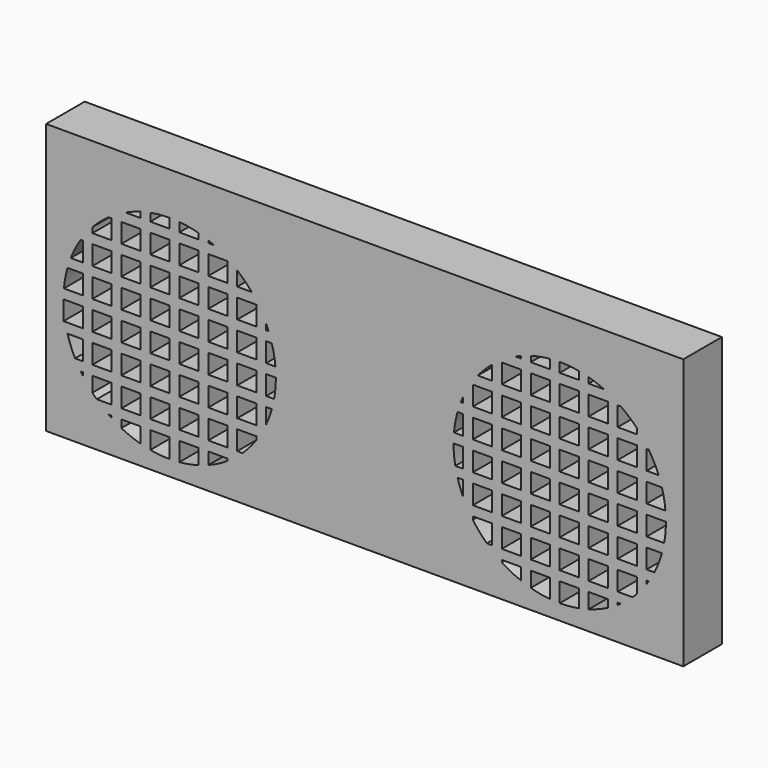
from build123d import *

# Parameters (mm, degrees)
F0_W     = 165
F0_H     = 140
F0_W_2   = 10
F0_H_2   = 10
F1_DEPTH = 25


with BuildPart() as f1:
    # F0 (on Front) → F1 (new body)
    with BuildSketch(Plane.XZ):
        with Locations((-82.5, 70)):
            Rectangle(F0_W, F0_H)
        with Locations((-151, 13)):
            Rectangle(F0_W_2, F0_H_2, mode=Mode.SUBTRACT)
        with Locations((-61, 13)):
            Rectangle(F0_W_2, F0_H_2, mode=Mode.SUBTRACT)
        with Locations((-46, 13)):
            Rectangle(F0_W_2, F0_H_2, mode=Mode.SUBTRACT)
        with Locations((-46, 28)):
            Rectangle(F0_W_2, F0_H_2, mode=Mode.SUBTRACT)
        with BuildLine():
            ThreePointArc((-46.2277442495, 68), (-46.0569655631, 65.5025920284), (-46, 63))
            Line((-46, 63), (-41, 63))
            Line((-41, 63), (-41, 53))
            Line((-41, 53), (-46.916730868, 53))
            ThreePointArc((-46.916730868, 53), (-47.4424720312, 50.4863595275), (-48.0849737787, 48))
            Line((-48.0849737787, 48), (-41, 48))
            Line((-41, 48), (-41, 38))
            Line((-41, 38), (-51, 38))
            Line((-51, 38), (-51, 40.0871215252))
            ThreePointArc((-51, 40.0871215252), (-53.3007800761, 35.6178083665), (-56, 31.3772233983))
            Line((-56, 31.3772233983), (-56, 23))
            Line((-56, 23), (-63.2508278236, 23))
            ThreePointArc((-63.2508278236, 23), (-66.9884852305, 19.7771256962), (-71, 16.9022777135))
            Line((-71, 16.9022777135), (-71, 8))
            Line((-71, 8), (-81, 8))
            Line((-81, 8), (-81, 11.7652461702))
            ThreePointArc((-81, 11.7652461702), (-83.4798450684, 10.8651347832), (-86, 10.0849737787))
            Line((-86, 10.0849737787), (-86, 8))
            Line((-86, 8), (-96, 8))
            Line((-96, 8), (-96, 8.2277442495))
            ThreePointArc((-96, 8.2277442495), (-98.4974079716, 8.0569655631), (-101, 8))
            Line((-101, 8), (-111, 8))
            Line((-111, 8), (-111, 8.916730868))
            ThreePointArc((-111, 8.916730868), (-113.5136404725, 9.4424720312), (-116, 10.0849737787))
            Line((-116, 10.0849737787), (-116, 8))
            Line((-116, 8), (-126, 8))
            Line((-126, 8), (-126, 14.0102051443))
            ThreePointArc((-126, 14.0102051443), (-128.5379923185, 15.3905578791), (-131, 16.9022777135))
            Line((-131, 16.9022777135), (-131, 8))
            Line((-131, 8), (-141, 8))
            Line((-141, 8), (-141, 18))
            Line((-141, 18), (-132.6227766017, 18))
            ThreePointArc((-132.6227766017, 18), (-135.7759517385, 20.3897526329), (-138.7491721764, 23))
            Line((-138.7491721764, 23), (-141, 23))
            Line((-141, 23), (-141, 25.2508278236))
            ThreePointArc((-141, 25.2508278236), (-143.6102473671, 28.2240482615), (-146, 31.3772233983))
            Line((-146, 31.3772233983), (-146, 23))
            Line((-146, 23), (-156, 23))
            Line((-156, 23), (-156, 33))
            Line((-156, 33), (-147.0977222865, 33))
            ThreePointArc((-147.0977222865, 33), (-148.6094421209, 35.4620076815), (-149.9897948557, 38))
            Line((-149.9897948557, 38), (-156, 38))
            Line((-156, 38), (-156, 48))
            Line((-156, 48), (-153.9150262213, 48))
            ThreePointArc((-153.9150262213, 48), (-154.5575279688, 50.4863595275), (-155.083269132, 53))
            Line((-155.083269132, 53), (-156, 53))
            Line((-156, 53), (-156, 63))
            ThreePointArc((-156, 63), (-155.9430344369, 65.5025920284), (-155.7722557505, 68))
            Line((-155.7722557505, 68), (-156, 68))
            Line((-156, 68), (-156, 78))
            Line((-156, 78), (-153.9150262213, 78))
            ThreePointArc((-153.9150262213, 78), (-153.1348652168, 80.5201549316), (-152.2347538298, 83))
            Line((-152.2347538298, 83), (-156, 83))
            Line((-156, 83), (-156, 93))
            Line((-156, 93), (-147.0977222865, 93))
            ThreePointArc((-147.0977222865, 93), (-144.2228743038, 97.0115147695), (-141, 100.7491721764))
            Line((-141, 100.7491721764), (-141, 108))
            Line((-141, 108), (-132.6227766017, 108))
            ThreePointArc((-132.6227766017, 108), (-128.3821916335, 110.6992199239), (-123.9128784748, 113))
            Line((-123.9128784748, 113), (-126, 113))
            Line((-126, 113), (-126, 123))
            Line((-126, 123), (-116, 123))
            Line((-116, 123), (-116, 115.9150262213))
            ThreePointArc((-116, 115.9150262213), (-113.5136404725, 116.5575279688), (-111, 117.083269132))
            Line((-111, 117.083269132), (-111, 123))
            Line((-111, 123), (-101, 123))
            Line((-101, 123), (-101, 118))
            ThreePointArc((-101, 118), (-98.4974079716, 117.9430344369), (-96, 117.7722557505))
            Line((-96, 117.7722557505), (-96, 123))
            Line((-96, 123), (-86, 123))
            Line((-86, 123), (-86, 115.9150262213))
            ThreePointArc((-86, 115.9150262213), (-83.4798450684, 115.1348652168), (-81, 114.2347538298))
            Line((-81, 114.2347538298), (-81, 123))
            Line((-81, 123), (-71, 123))
            Line((-71, 123), (-71, 113))
            Line((-71, 113), (-78.0871215252, 113))
            ThreePointArc((-78.0871215252, 113), (-71.7970001279, 109.6067033641), (-66, 105.4264068712))
            Line((-66, 105.4264068712), (-66, 108))
            Line((-66, 108), (-56, 108))
            Line((-56, 108), (-56, 98))
            Line((-56, 98), (-58.5735931288, 98))
            ThreePointArc((-58.5735931288, 98), (-54.3932966359, 92.2029998721), (-51, 85.9128784748))
            Line((-51, 85.9128784748), (-51, 93))
            Line((-51, 93), (-41, 93))
            Line((-41, 93), (-41, 83))
            Line((-41, 83), (-49.7652461702, 83))
            ThreePointArc((-49.7652461702, 83), (-48.8651347832, 80.5201549316), (-48.0849737787, 78))
            Line((-48.0849737787, 78), (-41, 78))
            Line((-41, 78), (-41, 68))
            Line((-41, 68), (-46.2277442495, 68))
        make_face(mode=Mode.SUBTRACT)
        with Locations((-151, 103)):
            Rectangle(F0_W_2, F0_H_2, mode=Mode.SUBTRACT)
        with Locations((-46, 103)):
            Rectangle(F0_W_2, F0_H_2, mode=Mode.SUBTRACT)
        with Locations((-151, 118)):
            Rectangle(F0_W_2, F0_H_2, mode=Mode.SUBTRACT)
        with Locations((-136, 118)):
            Rectangle(F0_W_2, F0_H_2, mode=Mode.SUBTRACT)
        with Locations((-61, 118)):
            Rectangle(F0_W_2, F0_H_2, mode=Mode.SUBTRACT)
        with Locations((-46, 118)):
            Rectangle(F0_W_2, F0_H_2, mode=Mode.SUBTRACT)
        with Locations((82.5, 70)):
            Rectangle(F0_W, F0_H)
        with Locations((46, 13)):
            Rectangle(F0_W_2, F0_H_2, mode=Mode.SUBTRACT)
        with Locations((61, 13)):
            Rectangle(F0_W_2, F0_H_2, mode=Mode.SUBTRACT)
        with Locations((46, 28)):
            Rectangle(F0_W_2, F0_H_2, mode=Mode.SUBTRACT)
        with Locations((151, 13)):
            Rectangle(F0_W_2, F0_H_2, mode=Mode.SUBTRACT)
        with BuildLine():
            Line((156, 23), (146, 23))
            Line((146, 23), (146, 31.3772233983))
            ThreePointArc((146, 31.3772233983), (143.6102473671, 28.2240482615), (141, 25.2508278236))
            Line((141, 25.2508278236), (141, 23))
            Line((141, 23), (138.7491721764, 23))
            ThreePointArc((138.7491721764, 23), (135.7759517385, 20.3897526329), (132.6227766017, 18))
            Line((132.6227766017, 18), (141, 18))
            Line((141, 18), (141, 8))
            Line((141, 8), (131, 8))
            Line((131, 8), (131, 16.9022777135))
            ThreePointArc((131, 16.9022777135), (128.5379923185, 15.3905578791), (126, 14.0102051443))
            Line((126, 14.0102051443), (126, 8))
            Line((126, 8), (116, 8))
            Line((116, 8), (116, 10.0849737787))
            ThreePointArc((116, 10.0849737787), (113.5136404725, 9.4424720312), (111, 8.916730868))
            Line((111, 8.916730868), (111, 8))
            Line((111, 8), (101, 8))
            ThreePointArc((101, 8), (98.4974079716, 8.0569655631), (96, 8.2277442495))
            Line((96, 8.2277442495), (96, 8))
            Line((96, 8), (86, 8))
            Line((86, 8), (86, 10.0849737787))
            ThreePointArc((86, 10.0849737787), (83.4798450684, 10.8651347832), (81, 11.7652461702))
            Line((81, 11.7652461702), (81, 8))
            Line((81, 8), (71, 8))
            Line((71, 8), (71, 16.9022777135))
            ThreePointArc((71, 16.9022777135), (66.9884852305, 19.7771256962), (63.2508278236, 23))
            Line((63.2508278236, 23), (56, 23))
            Line((56, 23), (56, 31.3772233983))
            ThreePointArc((56, 31.3772233983), (53.3007800761, 35.6178083665), (51, 40.0871215252))
            Line((51, 40.0871215252), (51, 38))
            Line((51, 38), (41, 38))
            Line((41, 38), (41, 48))
            Line((41, 48), (48.0849737787, 48))
            ThreePointArc((48.0849737787, 48), (47.4424720312, 50.4863595275), (46.916730868, 53))
            Line((46.916730868, 53), (41, 53))
            Line((41, 53), (41, 63))
            Line((41, 63), (46, 63))
            ThreePointArc((46, 63), (46.0569655631, 65.5025920284), (46.2277442495, 68))
            Line((46.2277442495, 68), (41, 68))
            Line((41, 68), (41, 78))
            Line((41, 78), (48.0849737787, 78))
            ThreePointArc((48.0849737787, 78), (48.8651347832, 80.5201549316), (49.7652461702, 83))
            Line((49.7652461702, 83), (41, 83))
            Line((41, 83), (41, 93))
            Line((41, 93), (51, 93))
            Line((51, 93), (51, 85.9128784748))
            ThreePointArc((51, 85.9128784748), (54.3932966359, 92.2029998721), (58.5735931288, 98))
            Line((58.5735931288, 98), (56, 98))
            Line((56, 98), (56, 108))
            Line((56, 108), (66, 108))
            Line((66, 108), (66, 105.4264068712))
            ThreePointArc((66, 105.4264068712), (71.7970001279, 109.6067033641), (78.0871215252, 113))
            Line((78.0871215252, 113), (71, 113))
            Line((71, 113), (71, 123))
            Line((71, 123), (81, 123))
            Line((81, 123), (81, 114.2347538298))
            ThreePointArc((81, 114.2347538298), (83.4798450684, 115.1348652168), (86, 115.9150262213))
            Line((86, 115.9150262213), (86, 123))
            Line((86, 123), (96, 123))
            Line((96, 123), (96, 117.7722557505))
            ThreePointArc((96, 117.7722557505), (98.4974079716, 117.9430344369), (101, 118))
            Line((101, 118), (101, 123))
            Line((101, 123), (111, 123))
            Line((111, 123), (111, 117.083269132))
            ThreePointArc((111, 117.083269132), (113.5136404725, 116.5575279688), (116, 115.9150262213))
            Line((116, 115.9150262213), (116, 123))
            Line((116, 123), (126, 123))
            Line((126, 123), (126, 113))
            Line((126, 113), (123.9128784748, 113))
            ThreePointArc((123.9128784748, 113), (128.3821916335, 110.6992199239), (132.6227766017, 108))
            Line((132.6227766017, 108), (141, 108))
            Line((141, 108), (141, 100.7491721764))
            ThreePointArc((141, 100.7491721764), (144.2228743038, 97.0115147695), (147.0977222865, 93))
            Line((147.0977222865, 93), (156, 93))
            Line((156, 93), (156, 83))
            Line((156, 83), (152.2347538298, 83))
            ThreePointArc((152.2347538298, 83), (153.1348652168, 80.5201549316), (153.9150262213, 78))
            Line((153.9150262213, 78), (156, 78))
            Line((156, 78), (156, 68))
            Line((156, 68), (155.7722557505, 68))
            ThreePointArc((155.7722557505, 68), (155.9430344369, 65.5025920284), (156, 63))
            Line((156, 63), (156, 53))
            Line((156, 53), (155.083269132, 53))
            ThreePointArc((155.083269132, 53), (154.5575279688, 50.4863595275), (153.9150262213, 48))
            Line((153.9150262213, 48), (156, 48))
            Line((156, 48), (156, 38))
            Line((156, 38), (149.9897948557, 38))
            ThreePointArc((149.9897948557, 38), (148.6094421209, 35.4620076815), (147.0977222865, 33))
            Line((147.0977222865, 33), (156, 33))
            Line((156, 33), (156, 23))
        make_face(mode=Mode.SUBTRACT)
        with Locations((46, 103)):
            Rectangle(F0_W_2, F0_H_2, mode=Mode.SUBTRACT)
        with Locations((151, 103)):
            Rectangle(F0_W_2, F0_H_2, mode=Mode.SUBTRACT)
        with Locations((46, 118)):
            Rectangle(F0_W_2, F0_H_2, mode=Mode.SUBTRACT)
        with Locations((61, 118)):
            Rectangle(F0_W_2, F0_H_2, mode=Mode.SUBTRACT)
        with Locations((136, 118)):
            Rectangle(F0_W_2, F0_H_2, mode=Mode.SUBTRACT)
        with Locations((151, 118)):
            Rectangle(F0_W_2, F0_H_2, mode=Mode.SUBTRACT)
        with Locations((-151, 118)):
            Rectangle(F0_W_2, F0_H_2)
        with Locations((-136, 118)):
            Rectangle(F0_W_2, F0_H_2)
        with BuildLine():
            ThreePointArc((-123.9128784748, 113), (-120.0123889353, 114.6093893296), (-116, 115.9150262213))
            Line((-116, 115.9150262213), (-116, 123))
            Line((-116, 123), (-126, 123))
            Line((-126, 123), (-126, 113))
            Line((-126, 113), (-123.9128784748, 113))
        make_face()
        with BuildLine():
            ThreePointArc((-111, 117.083269132), (-106.0209659301, 117.7703377854), (-101, 118))
            Line((-101, 118), (-101, 123))
            Line((-101, 123), (-111, 123))
            Line((-111, 123), (-111, 117.083269132))
        make_face()
        with BuildLine():
            ThreePointArc((-96, 117.7722557505), (-90.956976283, 117.0752963433), (-86, 115.9150262213))
            Line((-86, 115.9150262213), (-86, 123))
            Line((-86, 123), (-96, 123))
            Line((-96, 123), (-96, 117.7722557505))
        make_face()
        with BuildLine():
            ThreePointArc((-81, 114.2347538298), (-79.534680552, 113.638326009), (-78.0871215252, 113))
            Line((-78.0871215252, 113), (-71, 113))
            Line((-71, 113), (-71, 123))
            Line((-71, 123), (-81, 123))
            Line((-81, 123), (-81, 114.2347538298))
        make_face()
        with Locations((-61, 118)):
            Rectangle(F0_W_2, F0_H_2)
        with Locations((-46, 118)):
            Rectangle(F0_W_2, F0_H_2)
        with Locations((-46, 103)):
            Rectangle(F0_W_2, F0_H_2)
        with BuildLine():
            ThreePointArc((-66, 105.4264068712), (-62.1091270347, 101.8908729653), (-58.5735931288, 98))
            Line((-58.5735931288, 98), (-56, 98))
            Line((-56, 98), (-56, 108))
            Line((-56, 108), (-66, 108))
            Line((-66, 108), (-66, 105.4264068712))
        make_face()
        with BuildLine():
            ThreePointArc((-141, 100.7491721764), (-136.9944323204, 104.5860654779), (-132.6227766017, 108))
            Line((-132.6227766017, 108), (-141, 108))
            Line((-141, 108), (-141, 100.7491721764))
        make_face()
        with Locations((-151, 103)):
            Rectangle(F0_W_2, F0_H_2)
        with BuildLine():
            ThreePointArc((-152.2347538298, 83), (-149.9224153812, 88.1315990989), (-147.0977222865, 93))
            Line((-147.0977222865, 93), (-156, 93))
            Line((-156, 93), (-156, 83))
            Line((-156, 83), (-152.2347538298, 83))
        make_face()
        with BuildLine():
            ThreePointArc((-51, 85.9128784748), (-50.361673991, 84.465319448), (-49.7652461702, 83))
            Line((-49.7652461702, 83), (-41, 83))
            Line((-41, 83), (-41, 93))
            Line((-41, 93), (-51, 93))
            Line((-51, 93), (-51, 85.9128784748))
        make_face()
        with BuildLine():
            ThreePointArc((-48.0849737787, 78), (-46.9247036567, 73.043023717), (-46.2277442495, 68))
            Line((-46.2277442495, 68), (-41, 68))
            Line((-41, 68), (-41, 78))
            Line((-41, 78), (-48.0849737787, 78))
        make_face()
        with BuildLine():
            Line((-41, 63), (-46, 63))
            ThreePointArc((-46, 63), (-46.2296622146, 57.9790340699), (-46.916730868, 53))
            Line((-46.916730868, 53), (-41, 53))
            Line((-41, 53), (-41, 63))
        make_face()
        with BuildLine():
            Line((-41, 48), (-48.0849737787, 48))
            ThreePointArc((-48.0849737787, 48), (-49.3906106704, 43.9876110647), (-51, 40.0871215252))
            Line((-51, 40.0871215252), (-51, 38))
            Line((-51, 38), (-41, 38))
            Line((-41, 38), (-41, 48))
        make_face()
        with Locations((-46, 28)):
            Rectangle(F0_W_2, F0_H_2)
        with Locations((-46, 13)):
            Rectangle(F0_W_2, F0_H_2)
        with Locations((-61, 13)):
            Rectangle(F0_W_2, F0_H_2)
        with BuildLine():
            Line((-56, 23), (-56, 31.3772233983))
            ThreePointArc((-56, 31.3772233983), (-59.4139345221, 27.0055676796), (-63.2508278236, 23))
            Line((-63.2508278236, 23), (-56, 23))
        make_face()
        with BuildLine():
            Line((-71, 8), (-71, 16.9022777135))
            ThreePointArc((-71, 16.9022777135), (-75.8684009011, 14.0775846188), (-81, 11.7652461702))
            Line((-81, 11.7652461702), (-81, 8))
            Line((-81, 8), (-71, 8))
        make_face()
        with BuildLine():
            Line((-116, 8), (-116, 10.0849737787))
            ThreePointArc((-116, 10.0849737787), (-121.0960657921, 11.8028502778), (-126, 14.0102051443))
            Line((-126, 14.0102051443), (-126, 8))
            Line((-126, 8), (-116, 8))
        make_face()
        with BuildLine():
            Line((-131, 8), (-131, 16.9022777135))
            ThreePointArc((-131, 16.9022777135), (-131.8162765041, 17.4439125646), (-132.6227766017, 18))
            Line((-132.6227766017, 18), (-141, 18))
            Line((-141, 18), (-141, 8))
            Line((-141, 8), (-131, 8))
        make_face()
        with Locations((-151, 13)):
            Rectangle(F0_W_2, F0_H_2)
        with BuildLine():
            Line((-146, 23), (-146, 31.3772233983))
            ThreePointArc((-146, 31.3772233983), (-146.5560874354, 32.1837234959), (-147.0977222865, 33))
            Line((-147.0977222865, 33), (-156, 33))
            Line((-156, 33), (-156, 23))
            Line((-156, 23), (-146, 23))
        make_face()
        with BuildLine():
            Line((-156, 38), (-149.9897948557, 38))
            ThreePointArc((-149.9897948557, 38), (-152.1971497222, 42.9039342079), (-153.9150262213, 48))
            Line((-153.9150262213, 48), (-156, 48))
            Line((-156, 48), (-156, 38))
        make_face()
        with BuildLine():
            ThreePointArc((-155.7722557505, 68), (-155.0752963433, 73.043023717), (-153.9150262213, 78))
            Line((-153.9150262213, 78), (-156, 78))
            Line((-156, 78), (-156, 68))
            Line((-156, 68), (-155.7722557505, 68))
        make_face()
        with BuildLine():
            Line((-141, 23), (-138.7491721764, 23))
            ThreePointArc((-138.7491721764, 23), (-139.8908729653, 24.1091270347), (-141, 25.2508278236))
            Line((-141, 25.2508278236), (-141, 23))
        make_face()
        with BuildLine():
            Line((-111, 8), (-101, 8))
            ThreePointArc((-101, 8), (-106.0209659301, 8.2296622146), (-111, 8.916730868))
            Line((-111, 8.916730868), (-111, 8))
        make_face()
        with BuildLine():
            Line((-86, 8), (-86, 10.0849737787))
            ThreePointArc((-86, 10.0849737787), (-90.956976283, 8.9247036567), (-96, 8.2277442495))
            Line((-96, 8.2277442495), (-96, 8))
            Line((-96, 8), (-86, 8))
        make_face()
        with BuildLine():
            Line((-51, 63), (-46, 63))
            ThreePointArc((-46, 63), (-46.0569655631, 65.5025920284), (-46.2277442495, 68))
            Line((-46.2277442495, 68), (-51, 68))
            Line((-51, 68), (-51, 78))
            Line((-51, 78), (-48.0849737787, 78))
            ThreePointArc((-48.0849737787, 78), (-48.8651347832, 80.5201549316), (-49.7652461702, 83))
            Line((-49.7652461702, 83), (-51, 83))
            Line((-51, 83), (-51, 85.9128784748))
            ThreePointArc((-51, 85.9128784748), (-54.3932966359, 92.2029998721), (-58.5735931288, 98))
            Line((-58.5735931288, 98), (-66, 98))
            Line((-66, 98), (-66, 105.4264068712))
            ThreePointArc((-66, 105.4264068712), (-71.7970001279, 109.6067033641), (-78.0871215252, 113))
            Line((-78.0871215252, 113), (-81, 113))
            Line((-81, 113), (-81, 114.2347538298))
            ThreePointArc((-81, 114.2347538298), (-83.4798450684, 115.1348652168), (-86, 115.9150262213))
            Line((-86, 115.9150262213), (-86, 113))
            Line((-86, 113), (-96, 113))
            Line((-96, 113), (-96, 117.7722557505))
            ThreePointArc((-96, 117.7722557505), (-98.4974079716, 117.9430344369), (-101, 118))
            Line((-101, 118), (-101, 113))
            Line((-101, 113), (-111, 113))
            Line((-111, 113), (-111, 117.083269132))
            ThreePointArc((-111, 117.083269132), (-113.5136404725, 116.5575279688), (-116, 115.9150262213))
            Line((-116, 115.9150262213), (-116, 113))
            Line((-116, 113), (-123.9128784748, 113))
            ThreePointArc((-123.9128784748, 113), (-128.3821916335, 110.6992199239), (-132.6227766017, 108))
            Line((-132.6227766017, 108), (-131, 108))
            Line((-131, 108), (-131, 98))
            Line((-131, 98), (-141, 98))
            Line((-141, 98), (-141, 100.7491721764))
            ThreePointArc((-141, 100.7491721764), (-144.2228743038, 97.0115147695), (-147.0977222865, 93))
            Line((-147.0977222865, 93), (-146, 93))
            Line((-146, 93), (-146, 83))
            Line((-146, 83), (-152.2347538298, 83))
            ThreePointArc((-152.2347538298, 83), (-153.1348652168, 80.5201549316), (-153.9150262213, 78))
            Line((-153.9150262213, 78), (-146, 78))
            Line((-146, 78), (-146, 68))
            Line((-146, 68), (-155.7722557505, 68))
            ThreePointArc((-155.7722557505, 68), (-155.9430344369, 65.5025920284), (-156, 63))
            Line((-156, 63), (-146, 63))
            Line((-146, 63), (-146, 53))
            Line((-146, 53), (-155.083269132, 53))
            ThreePointArc((-155.083269132, 53), (-154.5575279688, 50.4863595275), (-153.9150262213, 48))
            Line((-153.9150262213, 48), (-146, 48))
            Line((-146, 48), (-146, 38))
            Line((-146, 38), (-149.9897948557, 38))
            ThreePointArc((-149.9897948557, 38), (-148.6094421209, 35.4620076815), (-147.0977222865, 33))
            Line((-147.0977222865, 33), (-146, 33))
            Line((-146, 33), (-146, 31.3772233983))
            ThreePointArc((-146, 31.3772233983), (-143.6102473671, 28.2240482615), (-141, 25.2508278236))
            Line((-141, 25.2508278236), (-141, 33))
            Line((-141, 33), (-131, 33))
            Line((-131, 33), (-131, 23))
            Line((-131, 23), (-138.7491721764, 23))
            ThreePointArc((-138.7491721764, 23), (-135.7759517385, 20.3897526329), (-132.6227766017, 18))
            Line((-132.6227766017, 18), (-131, 18))
            Line((-131, 18), (-131, 16.9022777135))
            ThreePointArc((-131, 16.9022777135), (-128.5379923185, 15.3905578791), (-126, 14.0102051443))
            Line((-126, 14.0102051443), (-126, 18))
            Line((-126, 18), (-116, 18))
            Line((-116, 18), (-116, 10.0849737787))
            ThreePointArc((-116, 10.0849737787), (-113.5136404725, 9.4424720312), (-111, 8.916730868))
            Line((-111, 8.916730868), (-111, 18))
            Line((-111, 18), (-101, 18))
            Line((-101, 18), (-101, 8))
            ThreePointArc((-101, 8), (-98.4974079716, 8.0569655631), (-96, 8.2277442495))
            Line((-96, 8.2277442495), (-96, 18))
            Line((-96, 18), (-86, 18))
            Line((-86, 18), (-86, 10.0849737787))
            ThreePointArc((-86, 10.0849737787), (-83.4798450684, 10.8651347832), (-81, 11.7652461702))
            Line((-81, 11.7652461702), (-81, 18))
            Line((-81, 18), (-71, 18))
            Line((-71, 18), (-71, 16.9022777135))
            ThreePointArc((-71, 16.9022777135), (-66.9884852305, 19.7771256962), (-63.2508278236, 23))
            Line((-63.2508278236, 23), (-66, 23))
            Line((-66, 23), (-66, 33))
            Line((-66, 33), (-56, 33))
            Line((-56, 33), (-56, 31.3772233983))
            ThreePointArc((-56, 31.3772233983), (-53.3007800761, 35.6178083665), (-51, 40.0871215252))
            Line((-51, 40.0871215252), (-51, 48))
            Line((-51, 48), (-48.0849737787, 48))
            ThreePointArc((-48.0849737787, 48), (-47.4424720312, 50.4863595275), (-46.916730868, 53))
            Line((-46.916730868, 53), (-51, 53))
            Line((-51, 53), (-51, 63))
        make_face()
        with Locations((-121, 28)):
            Rectangle(F0_W_2, F0_H_2, mode=Mode.SUBTRACT)
        with Locations((-106, 28)):
            Rectangle(F0_W_2, F0_H_2, mode=Mode.SUBTRACT)
        with Locations((-91, 28)):
            Rectangle(F0_W_2, F0_H_2, mode=Mode.SUBTRACT)
        with Locations((-76, 28)):
            Rectangle(F0_W_2, F0_H_2, mode=Mode.SUBTRACT)
        with Locations((-136, 43)):
            Rectangle(F0_W_2, F0_H_2, mode=Mode.SUBTRACT)
        with Locations((-121, 43)):
            Rectangle(F0_W_2, F0_H_2, mode=Mode.SUBTRACT)
        with Locations((-106, 43)):
            Rectangle(F0_W_2, F0_H_2, mode=Mode.SUBTRACT)
        with Locations((-91, 43)):
            Rectangle(F0_W_2, F0_H_2, mode=Mode.SUBTRACT)
        with Locations((-136, 58)):
            Rectangle(F0_W_2, F0_H_2, mode=Mode.SUBTRACT)
        with Locations((-121, 58)):
            Rectangle(F0_W_2, F0_H_2, mode=Mode.SUBTRACT)
        with Locations((-106, 58)):
            Rectangle(F0_W_2, F0_H_2, mode=Mode.SUBTRACT)
        with Locations((-91, 58)):
            Rectangle(F0_W_2, F0_H_2, mode=Mode.SUBTRACT)
        with Locations((-76, 43)):
            Rectangle(F0_W_2, F0_H_2, mode=Mode.SUBTRACT)
        with Locations((-61, 43)):
            Rectangle(F0_W_2, F0_H_2, mode=Mode.SUBTRACT)
        with Locations((-76, 58)):
            Rectangle(F0_W_2, F0_H_2, mode=Mode.SUBTRACT)
        with Locations((-61, 58)):
            Rectangle(F0_W_2, F0_H_2, mode=Mode.SUBTRACT)
        with Locations((-136, 73)):
            Rectangle(F0_W_2, F0_H_2, mode=Mode.SUBTRACT)
        with Locations((-121, 73)):
            Rectangle(F0_W_2, F0_H_2, mode=Mode.SUBTRACT)
        with Locations((-106, 73)):
            Rectangle(F0_W_2, F0_H_2, mode=Mode.SUBTRACT)
        with Locations((-91, 73)):
            Rectangle(F0_W_2, F0_H_2, mode=Mode.SUBTRACT)
        with Locations((-136, 88)):
            Rectangle(F0_W_2, F0_H_2, mode=Mode.SUBTRACT)
        with Locations((-121, 88)):
            Rectangle(F0_W_2, F0_H_2, mode=Mode.SUBTRACT)
        with Locations((-106, 88)):
            Rectangle(F0_W_2, F0_H_2, mode=Mode.SUBTRACT)
        with Locations((-91, 88)):
            Rectangle(F0_W_2, F0_H_2, mode=Mode.SUBTRACT)
        with Locations((-121, 103)):
            Rectangle(F0_W_2, F0_H_2, mode=Mode.SUBTRACT)
        with Locations((-106, 103)):
            Rectangle(F0_W_2, F0_H_2, mode=Mode.SUBTRACT)
        with Locations((-91, 103)):
            Rectangle(F0_W_2, F0_H_2, mode=Mode.SUBTRACT)
        with Locations((-76, 73)):
            Rectangle(F0_W_2, F0_H_2, mode=Mode.SUBTRACT)
        with Locations((-61, 73)):
            Rectangle(F0_W_2, F0_H_2, mode=Mode.SUBTRACT)
        with Locations((-76, 88)):
            Rectangle(F0_W_2, F0_H_2, mode=Mode.SUBTRACT)
        with Locations((-61, 88)):
            Rectangle(F0_W_2, F0_H_2, mode=Mode.SUBTRACT)
        with Locations((-76, 103)):
            Rectangle(F0_W_2, F0_H_2, mode=Mode.SUBTRACT)
        with Locations((46, 118)):
            Rectangle(F0_W_2, F0_H_2)
        with Locations((61, 118)):
            Rectangle(F0_W_2, F0_H_2)
        with BuildLine():
            ThreePointArc((78.0871215252, 113), (79.534680552, 113.638326009), (81, 114.2347538298))
            Line((81, 114.2347538298), (81, 123))
            Line((81, 123), (71, 123))
            Line((71, 123), (71, 113))
            Line((71, 113), (78.0871215252, 113))
        make_face()
        with BuildLine():
            ThreePointArc((86, 115.9150262213), (90.956976283, 117.0752963433), (96, 117.7722557505))
            Line((96, 117.7722557505), (96, 123))
            Line((96, 123), (86, 123))
            Line((86, 123), (86, 115.9150262213))
        make_face()
        with BuildLine():
            ThreePointArc((101, 118), (106.0209659301, 117.7703377854), (111, 117.083269132))
            Line((111, 117.083269132), (111, 123))
            Line((111, 123), (101, 123))
            Line((101, 123), (101, 118))
        make_face()
        with BuildLine():
            ThreePointArc((116, 115.9150262213), (120.0123889353, 114.6093893296), (123.9128784748, 113))
            Line((123.9128784748, 113), (126, 113))
            Line((126, 113), (126, 123))
            Line((126, 123), (116, 123))
            Line((116, 123), (116, 115.9150262213))
        make_face()
        with Locations((136, 118)):
            Rectangle(F0_W_2, F0_H_2)
        with Locations((151, 118)):
            Rectangle(F0_W_2, F0_H_2)
        with BuildLine():
            ThreePointArc((132.6227766017, 108), (136.9944323204, 104.5860654779), (141, 100.7491721764))
            Line((141, 100.7491721764), (141, 108))
            Line((141, 108), (132.6227766017, 108))
        make_face()
        with Locations((151, 103)):
            Rectangle(F0_W_2, F0_H_2)
        with BuildLine():
            ThreePointArc((147.0977222865, 93), (149.9224153812, 88.1315990989), (152.2347538298, 83))
            Line((152.2347538298, 83), (156, 83))
            Line((156, 83), (156, 93))
            Line((156, 93), (147.0977222865, 93))
        make_face()
        with BuildLine():
            ThreePointArc((58.5735931288, 98), (62.1091270347, 101.8908729653), (66, 105.4264068712))
            Line((66, 105.4264068712), (66, 108))
            Line((66, 108), (56, 108))
            Line((56, 108), (56, 98))
            Line((56, 98), (58.5735931288, 98))
        make_face()
        with Locations((46, 103)):
            Rectangle(F0_W_2, F0_H_2)
        with BuildLine():
            Line((41, 83), (49.7652461702, 83))
            ThreePointArc((49.7652461702, 83), (50.361673991, 84.465319448), (51, 85.9128784748))
            Line((51, 85.9128784748), (51, 93))
            Line((51, 93), (41, 93))
            Line((41, 93), (41, 83))
        make_face()
        with BuildLine():
            Line((41, 68), (46.2277442495, 68))
            ThreePointArc((46.2277442495, 68), (46.9247036567, 73.043023717), (48.0849737787, 78))
            Line((48.0849737787, 78), (41, 78))
            Line((41, 78), (41, 68))
        make_face()
        with BuildLine():
            Line((41, 53), (46.916730868, 53))
            ThreePointArc((46.916730868, 53), (46.2296622146, 57.9790340699), (46, 63))
            Line((46, 63), (41, 63))
            Line((41, 63), (41, 53))
        make_face()
        with BuildLine():
            Line((51, 38), (51, 40.0871215252))
            ThreePointArc((51, 40.0871215252), (49.3906106704, 43.9876110647), (48.0849737787, 48))
            Line((48.0849737787, 48), (41, 48))
            Line((41, 48), (41, 38))
            Line((41, 38), (51, 38))
        make_face()
        with Locations((46, 28)):
            Rectangle(F0_W_2, F0_H_2)
        with Locations((46, 13)):
            Rectangle(F0_W_2, F0_H_2)
        with Locations((61, 13)):
            Rectangle(F0_W_2, F0_H_2)
        with BuildLine():
            Line((56, 23), (63.2508278236, 23))
            ThreePointArc((63.2508278236, 23), (59.4139345221, 27.0055676796), (56, 31.3772233983))
            Line((56, 31.3772233983), (56, 23))
        make_face()
        with BuildLine():
            Line((81, 8), (81, 11.7652461702))
            ThreePointArc((81, 11.7652461702), (75.8684009011, 14.0775846188), (71, 16.9022777135))
            Line((71, 16.9022777135), (71, 8))
            Line((71, 8), (81, 8))
        make_face()
        with BuildLine():
            Line((126, 8), (126, 14.0102051443))
            ThreePointArc((126, 14.0102051443), (121.0960657921, 11.8028502778), (116, 10.0849737787))
            Line((116, 10.0849737787), (116, 8))
            Line((116, 8), (126, 8))
        make_face()
        with BuildLine():
            Line((141, 18), (132.6227766017, 18))
            ThreePointArc((132.6227766017, 18), (131.8162765041, 17.4439125646), (131, 16.9022777135))
            Line((131, 16.9022777135), (131, 8))
            Line((131, 8), (141, 8))
            Line((141, 8), (141, 18))
        make_face()
        with Locations((151, 13)):
            Rectangle(F0_W_2, F0_H_2)
        with BuildLine():
            Line((146, 31.3772233983), (146, 23))
            Line((146, 23), (156, 23))
            Line((156, 23), (156, 33))
            Line((156, 33), (147.0977222865, 33))
            ThreePointArc((147.0977222865, 33), (146.5560874354, 32.1837234959), (146, 31.3772233983))
        make_face()
        with BuildLine():
            ThreePointArc((153.9150262213, 48), (152.1971497222, 42.9039342079), (149.9897948557, 38))
            Line((149.9897948557, 38), (156, 38))
            Line((156, 38), (156, 48))
            Line((156, 48), (153.9150262213, 48))
        make_face()
        with BuildLine():
            Line((111, 8), (111, 8.916730868))
            ThreePointArc((111, 8.916730868), (106.0209659301, 8.2296622146), (101, 8))
            Line((101, 8), (111, 8))
        make_face()
        with BuildLine():
            ThreePointArc((141, 25.2508278236), (143.6102473671, 28.2240482615), (146, 31.3772233983))
            Line((146, 31.3772233983), (146, 33))
            Line((146, 33), (147.0977222865, 33))
            ThreePointArc((147.0977222865, 33), (148.6094421209, 35.4620076815), (149.9897948557, 38))
            Line((149.9897948557, 38), (146, 38))
            Line((146, 38), (146, 48))
            Line((146, 48), (153.9150262213, 48))
            ThreePointArc((153.9150262213, 48), (154.5575279688, 50.4863595275), (155.083269132, 53))
            Line((155.083269132, 53), (146, 53))
            Line((146, 53), (146, 63))
            Line((146, 63), (156, 63))
            ThreePointArc((156, 63), (155.9430344369, 65.5025920284), (155.7722557505, 68))
            Line((155.7722557505, 68), (146, 68))
            Line((146, 68), (146, 78))
            Line((146, 78), (153.9150262213, 78))
            ThreePointArc((153.9150262213, 78), (153.1348652168, 80.5201549316), (152.2347538298, 83))
            Line((152.2347538298, 83), (146, 83))
            Line((146, 83), (146, 93))
            Line((146, 93), (147.0977222865, 93))
            ThreePointArc((147.0977222865, 93), (144.2228743038, 97.0115147695), (141, 100.7491721764))
            Line((141, 100.7491721764), (141, 98))
            Line((141, 98), (131, 98))
            Line((131, 98), (131, 108))
            Line((131, 108), (132.6227766017, 108))
            ThreePointArc((132.6227766017, 108), (128.3821916335, 110.6992199239), (123.9128784748, 113))
            Line((123.9128784748, 113), (116, 113))
            Line((116, 113), (116, 115.9150262213))
            ThreePointArc((116, 115.9150262213), (113.5136404725, 116.5575279688), (111, 117.083269132))
            Line((111, 117.083269132), (111, 113))
            Line((111, 113), (101, 113))
            Line((101, 113), (101, 118))
            ThreePointArc((101, 118), (98.4974079716, 117.9430344369), (96, 117.7722557505))
            Line((96, 117.7722557505), (96, 113))
            Line((96, 113), (86, 113))
            Line((86, 113), (86, 115.9150262213))
            ThreePointArc((86, 115.9150262213), (83.4798450684, 115.1348652168), (81, 114.2347538298))
            Line((81, 114.2347538298), (81, 113))
            Line((81, 113), (78.0871215252, 113))
            ThreePointArc((78.0871215252, 113), (71.7970001279, 109.6067033641), (66, 105.4264068712))
            Line((66, 105.4264068712), (66, 98))
            Line((66, 98), (58.5735931288, 98))
            ThreePointArc((58.5735931288, 98), (54.3932966359, 92.2029998721), (51, 85.9128784748))
            Line((51, 85.9128784748), (51, 83))
            Line((51, 83), (49.7652461702, 83))
            ThreePointArc((49.7652461702, 83), (48.8651347832, 80.5201549316), (48.0849737787, 78))
            Line((48.0849737787, 78), (51, 78))
            Line((51, 78), (51, 68))
            Line((51, 68), (46.2277442495, 68))
            ThreePointArc((46.2277442495, 68), (46.0569655631, 65.5025920284), (46, 63))
            Line((46, 63), (51, 63))
            Line((51, 63), (51, 53))
            Line((51, 53), (46.916730868, 53))
            ThreePointArc((46.916730868, 53), (47.4424720312, 50.4863595275), (48.0849737787, 48))
            Line((48.0849737787, 48), (51, 48))
            Line((51, 48), (51, 40.0871215252))
            ThreePointArc((51, 40.0871215252), (53.3007800761, 35.6178083665), (56, 31.3772233983))
            Line((56, 31.3772233983), (56, 33))
            Line((56, 33), (66, 33))
            Line((66, 33), (66, 23))
            Line((66, 23), (63.2508278236, 23))
            ThreePointArc((63.2508278236, 23), (66.9884852305, 19.7771256962), (71, 16.9022777135))
            Line((71, 16.9022777135), (71, 18))
            Line((71, 18), (81, 18))
            Line((81, 18), (81, 11.7652461702))
            ThreePointArc((81, 11.7652461702), (83.4798450684, 10.8651347832), (86, 10.0849737787))
            Line((86, 10.0849737787), (86, 18))
            Line((86, 18), (96, 18))
            Line((96, 18), (96, 8.2277442495))
            ThreePointArc((96, 8.2277442495), (98.4974079716, 8.0569655631), (101, 8))
            Line((101, 8), (101, 18))
            Line((101, 18), (111, 18))
            Line((111, 18), (111, 8.916730868))
            ThreePointArc((111, 8.916730868), (113.5136404725, 9.4424720312), (116, 10.0849737787))
            Line((116, 10.0849737787), (116, 18))
            Line((116, 18), (126, 18))
            Line((126, 18), (126, 14.0102051443))
            ThreePointArc((126, 14.0102051443), (128.5379923185, 15.3905578791), (131, 16.9022777135))
            Line((131, 16.9022777135), (131, 18))
            Line((131, 18), (132.6227766017, 18))
            ThreePointArc((132.6227766017, 18), (135.7759517385, 20.3897526329), (138.7491721764, 23))
            Line((138.7491721764, 23), (131, 23))
            Line((131, 23), (131, 33))
            Line((131, 33), (141, 33))
            Line((141, 33), (141, 25.2508278236))
        make_face()
        with Locations((76, 28)):
            Rectangle(F0_W_2, F0_H_2, mode=Mode.SUBTRACT)
        with Locations((91, 28)):
            Rectangle(F0_W_2, F0_H_2, mode=Mode.SUBTRACT)
        with Locations((106, 28)):
            Rectangle(F0_W_2, F0_H_2, mode=Mode.SUBTRACT)
        with Locations((121, 28)):
            Rectangle(F0_W_2, F0_H_2, mode=Mode.SUBTRACT)
        with Locations((61, 43)):
            Rectangle(F0_W_2, F0_H_2, mode=Mode.SUBTRACT)
        with Locations((76, 43)):
            Rectangle(F0_W_2, F0_H_2, mode=Mode.SUBTRACT)
        with Locations((61, 58)):
            Rectangle(F0_W_2, F0_H_2, mode=Mode.SUBTRACT)
        with Locations((76, 58)):
            Rectangle(F0_W_2, F0_H_2, mode=Mode.SUBTRACT)
        with Locations((91, 43)):
            Rectangle(F0_W_2, F0_H_2, mode=Mode.SUBTRACT)
        with Locations((106, 43)):
            Rectangle(F0_W_2, F0_H_2, mode=Mode.SUBTRACT)
        with Locations((121, 43)):
            Rectangle(F0_W_2, F0_H_2, mode=Mode.SUBTRACT)
        with Locations((136, 43)):
            Rectangle(F0_W_2, F0_H_2, mode=Mode.SUBTRACT)
        with Locations((91, 58)):
            Rectangle(F0_W_2, F0_H_2, mode=Mode.SUBTRACT)
        with Locations((106, 58)):
            Rectangle(F0_W_2, F0_H_2, mode=Mode.SUBTRACT)
        with Locations((121, 58)):
            Rectangle(F0_W_2, F0_H_2, mode=Mode.SUBTRACT)
        with Locations((136, 58)):
            Rectangle(F0_W_2, F0_H_2, mode=Mode.SUBTRACT)
        with Locations((61, 73)):
            Rectangle(F0_W_2, F0_H_2, mode=Mode.SUBTRACT)
        with Locations((76, 73)):
            Rectangle(F0_W_2, F0_H_2, mode=Mode.SUBTRACT)
        with Locations((61, 88)):
            Rectangle(F0_W_2, F0_H_2, mode=Mode.SUBTRACT)
        with Locations((76, 88)):
            Rectangle(F0_W_2, F0_H_2, mode=Mode.SUBTRACT)
        with Locations((76, 103)):
            Rectangle(F0_W_2, F0_H_2, mode=Mode.SUBTRACT)
        with Locations((91, 73)):
            Rectangle(F0_W_2, F0_H_2, mode=Mode.SUBTRACT)
        with Locations((106, 73)):
            Rectangle(F0_W_2, F0_H_2, mode=Mode.SUBTRACT)
        with Locations((121, 73)):
            Rectangle(F0_W_2, F0_H_2, mode=Mode.SUBTRACT)
        with Locations((136, 73)):
            Rectangle(F0_W_2, F0_H_2, mode=Mode.SUBTRACT)
        with Locations((91, 88)):
            Rectangle(F0_W_2, F0_H_2, mode=Mode.SUBTRACT)
        with Locations((106, 88)):
            Rectangle(F0_W_2, F0_H_2, mode=Mode.SUBTRACT)
        with Locations((121, 88)):
            Rectangle(F0_W_2, F0_H_2, mode=Mode.SUBTRACT)
        with Locations((91, 103)):
            Rectangle(F0_W_2, F0_H_2, mode=Mode.SUBTRACT)
        with Locations((106, 103)):
            Rectangle(F0_W_2, F0_H_2, mode=Mode.SUBTRACT)
        with Locations((121, 103)):
            Rectangle(F0_W_2, F0_H_2, mode=Mode.SUBTRACT)
        with Locations((136, 88)):
            Rectangle(F0_W_2, F0_H_2, mode=Mode.SUBTRACT)
        with BuildLine():
            ThreePointArc((156, 63), (155.7703377854, 57.9790340699), (155.083269132, 53))
            Line((155.083269132, 53), (156, 53))
            Line((156, 53), (156, 63))
        make_face()
        with BuildLine():
            Line((141, 23), (141, 25.2508278236))
            ThreePointArc((141, 25.2508278236), (139.8908729653, 24.1091270347), (138.7491721764, 23))
            Line((138.7491721764, 23), (141, 23))
        make_face()
        with BuildLine():
            Line((96, 8), (96, 8.2277442495))
            ThreePointArc((96, 8.2277442495), (90.956976283, 8.9247036567), (86, 10.0849737787))
            Line((86, 10.0849737787), (86, 8))
            Line((86, 8), (96, 8))
        make_face()
        with BuildLine():
            ThreePointArc((153.9150262213, 78), (155.0752963433, 73.043023717), (155.7722557505, 68))
            Line((155.7722557505, 68), (156, 68))
            Line((156, 68), (156, 78))
            Line((156, 78), (153.9150262213, 78))
        make_face()
    extrude(amount=F1_DEPTH)


solid = f1.part
